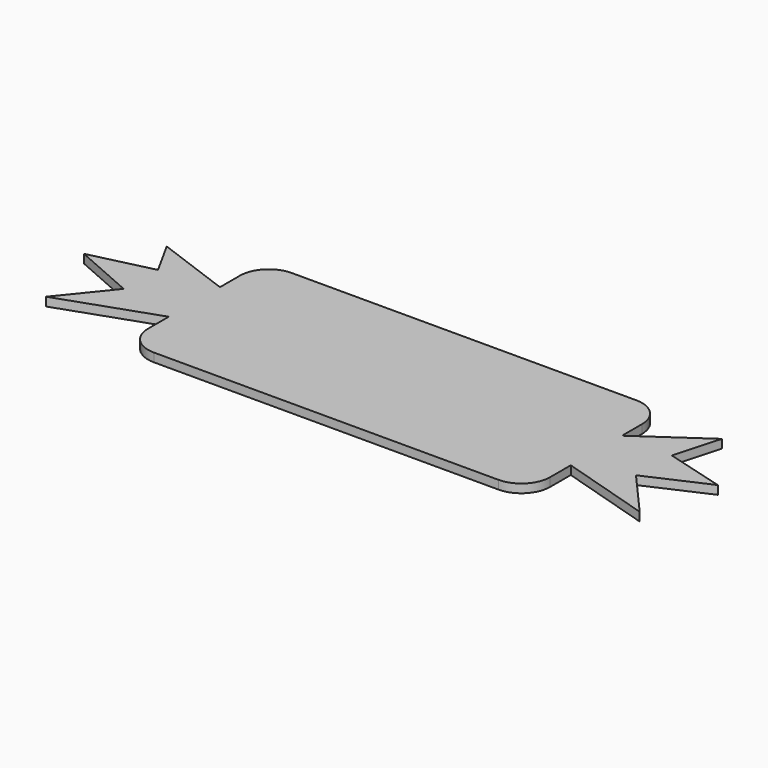
from build123d import *

# Parameters (mm, degrees)
F1_DEPTH = 1.5


with BuildPart() as f1:
    # F0 (on Top) → F1 (new body)
    with BuildSketch(Plane.XY):
        with BuildLine():
            Line((30, 15), (-30, 15))
            ThreePointArc((-30, 15), (-33.535534, 13.535534), (-35, 10))
            Line((-35, 10), (-35, 5.638967))
            Line((-35, 5.638967), (-35, -5.509344))
            Line((-35, -5.509344), (-35, -10))
            ThreePointArc((-35, -10), (-33.535534, -13.535534), (-30, -15))
            Line((-30, -15), (30, -15))
            ThreePointArc((30, -15), (33.535534, -13.535534), (35, -10))
            Line((35, -10), (35, -5.509344))
            Line((35, -5.509344), (35, 5.638967))
            Line((35, 5.638967), (35, 10))
            ThreePointArc((35, 10), (33.535534, 13.535534), (30, 15))
        make_face()
        Polygon((-35, -5.509344), (-35, 5.638967), (-48.147307, 10.48606), (-44.754342, 4.34641), (-55.579518, 1.761294), (-44.915912, -2.924228), (-51.701845, -11.325855), align=None)
        Polygon((46.192096, 13.394315), (35, 5.638967), (35, -5.509344), (50.877613, -10.356436), (43.768549, -2.277949), (54.255958, 2.424591), (43.930118, 5.315828), align=None)
    extrude(amount=F1_DEPTH)


solid = f1.part
